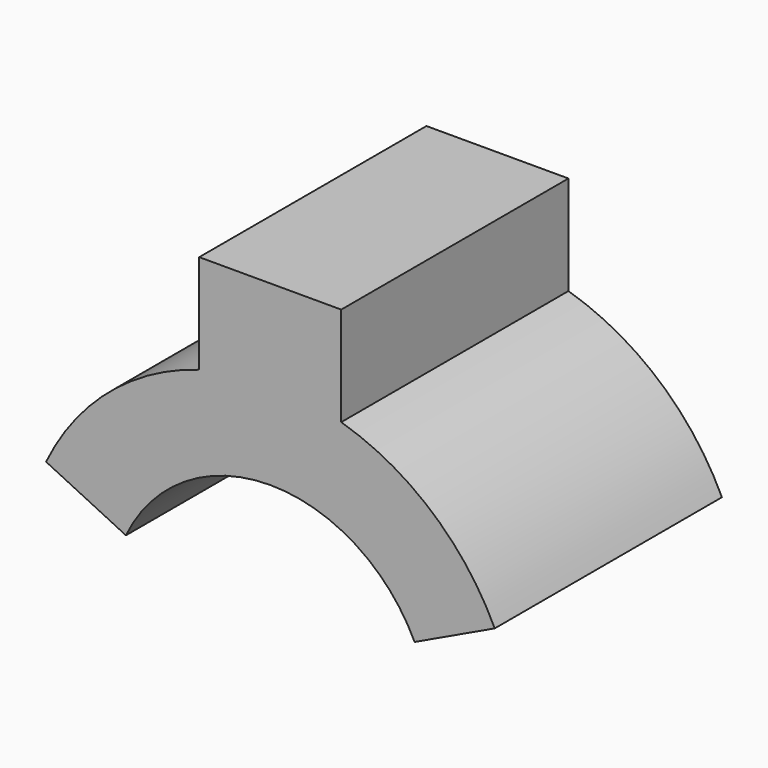
from build123d import *

# Parameters (mm, degrees)
F1_DEPTH = 20


with BuildPart() as f1:
    # F0 (on Front) → F1 (new body)
    with BuildSketch(Plane.XZ):
        with BuildLine():
            Line((19.2999951541, 26.6305115074), (24.9214912266, 23.8985655014))
            ThreePointArc((24.9214912266, 23.8985655014), (29.0725771912, 28.5851222957), (35.0859551343, 30.32713693))
            Line((35.0859551343, 30.32713693), (30.0859551343, 30.32713693))
            Line((30.0859551343, 30.32713693), (30.0859551343, 35.8476467612))
            ThreePointArc((30.0859551343, 35.8476467612), (23.7170093324, 32.38116156), (19.2999951541, 26.6305115074))
        make_face()
        with BuildLine():
            Line((30.0859551343, 30.32713693), (35.0859551343, 30.32713693))
            Line((35.0859551343, 30.32713693), (40.0859551343, 30.32713693))
            Line((40.0859551343, 30.32713693), (40.0859551343, 35.8476467612))
            ThreePointArc((40.0859551343, 35.8476467612), (35.0859551343, 36.57713693), (30.0859551343, 35.8476467612))
            Line((30.0859551343, 35.8476467612), (30.0859551343, 30.32713693))
        make_face()
        with BuildLine():
            Line((30.0859551343, 42.82713693), (30.0859551343, 35.8476467612))
            ThreePointArc((30.0859551343, 35.8476467612), (35.0859551343, 36.57713693), (40.0859551343, 35.8476467612))
            Line((40.0859551343, 35.8476467612), (40.0859551343, 42.82713693))
            Line((40.0859551343, 42.82713693), (30.0859551343, 42.82713693))
        make_face()
        with BuildLine():
            Line((40.0859551343, 30.32713693), (35.0859551343, 30.32713693))
            ThreePointArc((35.0859551343, 30.32713693), (41.0993330773, 28.5851222957), (45.2504190419, 23.8985655014))
            Line((45.2504190419, 23.8985655014), (50.8973434351, 26.57713693))
            ThreePointArc((50.8973434351, 26.57713693), (46.477357984, 32.3619380619), (40.0859551343, 35.8476467612))
            Line((40.0859551343, 35.8476467612), (40.0859551343, 30.32713693))
        make_face()
    extrude(amount=-F1_DEPTH)


solid = f1.part
